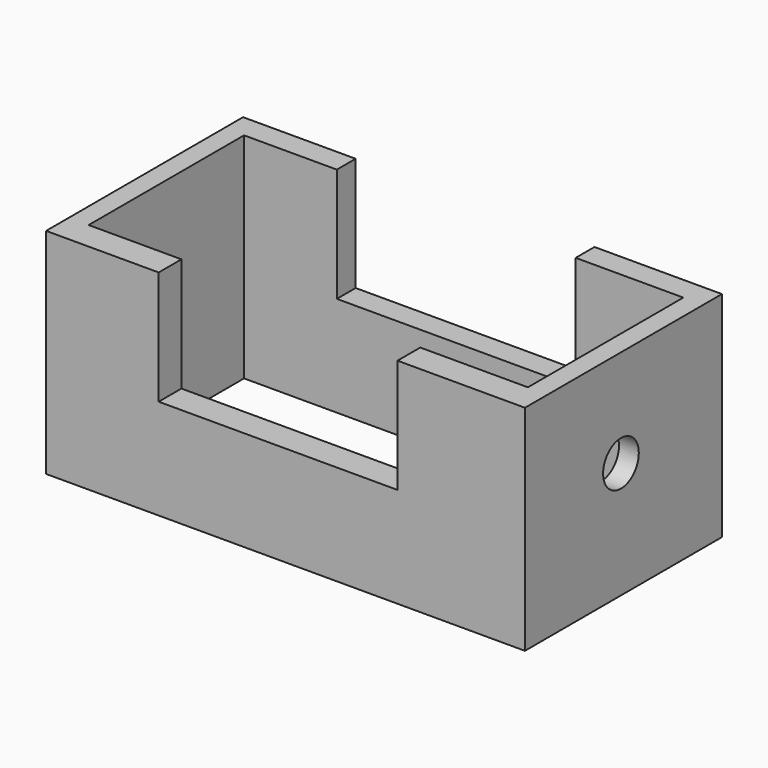
from build123d import *

# Parameters (mm, degrees)
F0_W     = 129.016124
F0_H     = 66.341627
F0_W_2   = 118.348129
F0_H_2   = 52.339877
F1_DEPTH = 57.658
F3_W     = 64.341373
F3_H     = 31.337252
F4_DEPTH = 139.446
F6_R     = 6.010004
F7_DEPTH = 240.792


with BuildPart() as f1:
    # F0 (on Top) → F1 (new body)
    with BuildSketch(Plane.XY):
        with Locations((2.500314, 0.833438)):
            Rectangle(F0_W, F0_H)
        with Locations((2.500314, 1.500186)):
            Rectangle(F0_W_2, F0_H_2, mode=Mode.SUBTRACT)
    extrude(amount=F1_DEPTH)

    # F3 (on offset) → F4 (cut)
    with BuildSketch(Plane.XZ.offset(68.834)):
        with Locations((0.500061, 42.672002)):
            Rectangle(F3_W, F3_H)
    extrude(amount=-F4_DEPTH, mode=Mode.SUBTRACT)

    # F6 (on offset) → F7 (cut)
    with BuildSketch(Plane.YZ.offset(71.628)):
        with Locations((0, 31.33725)):
            Circle(F6_R)
    extrude(amount=-F7_DEPTH, mode=Mode.SUBTRACT)


solid = f1.part
